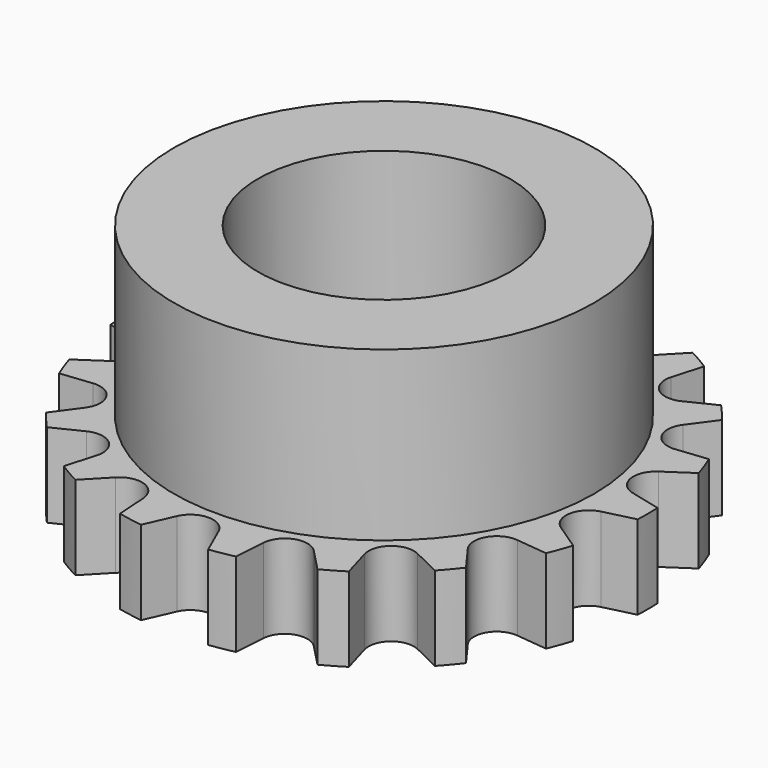
from build123d import *

# Parameters (mm, degrees)
F0_R     = 19.939
F1_DEPTH = 6.35
F2_R     = 15.875
F3_DEPTH = 12.7
F4_R     = 9.525
F5_DEPTH = 25.4
F7_DEPTH = 25.4


with BuildPart() as f1:
    # F0 (on Top) → F1 (new body)
    with BuildSketch(Plane.XY):
        Circle(F0_R)
    extrude(amount=F1_DEPTH)

    # F2 (on face) → F3 (join)
    with BuildSketch(Plane.XY.offset(6.35)):
        Circle(F2_R)
    extrude(amount=F3_DEPTH)

    # F4 (on face) → F5 (cut)
    with BuildSketch(Plane.XY.offset(19.05)):
        Circle(F4_R)
    extrude(amount=-F5_DEPTH, mode=Mode.SUBTRACT)

    # F6 (on face) → F7 (cut)
    with BuildSketch(Plane.XY.offset(6.35)):
        with BuildLine():
            Line((-2.5334230713, 19.777398427), (-1.5679899251, 17.5945175959))
            ThreePointArc((-1.5679899251, 17.5945175959), (0, 16.5735), (1.5679899251, 17.5945175959))
            Line((1.5679899251, 17.5945175959), (2.5334230713, 19.777398427))
            ThreePointArc((2.5334230713, 19.777398427), (0, 19.939), (-2.5334230713, 19.777398427))
        make_face()
        with BuildLine():
            ThreePointArc((9.1449076101, 17.7181936383), (6.8195396378, 18.7365311659), (4.3836296792, 19.4511570822))
            Line((4.3836296792, 19.4511570822), (4.5442508678, 17.0697224901))
            ThreePointArc((4.5442508678, 17.0697224901), (5.6684708454, 15.5739956506), (7.491107992, 15.9971542122))
            Line((7.491107992, 15.9971542122), (9.1449076101, 17.7181936383))
        make_face()
        with BuildLine():
            ThreePointArc((14.6533813266, 13.521913204), (12.8165421495, 15.2741601513), (10.7719519949, 16.7788191247))
            Line((10.7719519949, 16.7788191247), (10.1083879401, 14.4860669297))
            ThreePointArc((10.1083879401, 14.4860669297), (10.6532404491, 12.696037578), (12.5106878781, 12.4702979377))
            Line((12.5106878781, 12.4702979377), (14.6533813266, 13.521913204))
        make_face()
        with BuildLine():
            ThreePointArc((18.3944409942, 7.6946904752), (17.2676805261, 9.9695), (15.8610179229, 12.0827079518))
            Line((15.8610179229, 12.0827079518), (14.4533042428, 10.155177906))
            ThreePointArc((14.4533042428, 10.155177906), (14.3530720296, 8.28675), (16.0212941679, 7.4393396899))
            Line((16.0212941679, 7.4393396899), (18.3944409942, 7.6946904752))
        make_face()
        with BuildLine():
            ThreePointArc((19.9168596049, 0.9393745136), (19.6360817873, 3.4623710145), (19.0370110058, 5.9292438781))
            Line((19.0370110058, 5.9292438781), (17.0549387459, 4.5994245523))
            ThreePointArc((17.0549387459, 4.5994245523), (16.3217112945, 2.8779580726), (17.5994959321, 1.5110872826))
            Line((17.5994959321, 1.5110872826), (19.9168596049, 0.9393745136))
        make_face()
        with BuildLine():
            ThreePointArc((19.0370110058, -5.9292438781), (19.6360817873, -3.4623710145), (19.9168596049, -0.9393745136))
            Line((19.9168596049, -0.9393745136), (17.5994959321, -1.5110872826))
            ThreePointArc((17.5994959321, -1.5110872826), (16.3217112945, -2.8779580726), (17.0549387459, -4.5994245523))
            Line((17.0549387459, -4.5994245523), (19.0370110058, -5.9292438781))
        make_face()
        with BuildLine():
            ThreePointArc((15.8610179229, -12.0827079518), (17.2676805261, -9.9695), (18.3944409942, -7.6946904752))
            Line((18.3944409942, -7.6946904752), (16.0212941679, -7.4393396899))
            ThreePointArc((16.0212941679, -7.4393396899), (14.3530720296, -8.28675), (14.4533042428, -10.155177906))
            Line((14.4533042428, -10.155177906), (15.8610179229, -12.0827079518))
        make_face()
        with BuildLine():
            ThreePointArc((10.7719519949, -16.7788191247), (12.8165421495, -15.2741601513), (14.6533813266, -13.521913204))
            Line((14.6533813266, -13.521913204), (12.5106878781, -12.4702979377))
            ThreePointArc((12.5106878781, -12.4702979377), (10.6532404491, -12.696037578), (10.1083879401, -14.4860669297))
            Line((10.1083879401, -14.4860669297), (10.7719519949, -16.7788191247))
        make_face()
        with BuildLine():
            ThreePointArc((4.3836296792, -19.4511570822), (6.8195396378, -18.7365311659), (9.1449076101, -17.7181936383))
            Line((9.1449076101, -17.7181936383), (7.491107992, -15.9971542122))
            ThreePointArc((7.491107992, -15.9971542122), (5.6684708454, -15.5739956506), (4.5442508678, -17.0697224901))
            Line((4.5442508678, -17.0697224901), (4.3836296792, -19.4511570822))
        make_face()
        with BuildLine():
            Line((-1.5679899251, -17.5945175959), (-2.5334230713, -19.777398427))
            ThreePointArc((-2.5334230713, -19.777398427), (0, -19.939), (2.5334230713, -19.777398427))
            Line((2.5334230713, -19.777398427), (1.5679899251, -17.5945175959))
            ThreePointArc((1.5679899251, -17.5945175959), (0, -16.5735), (-1.5679899251, -17.5945175959))
        make_face()
        with BuildLine():
            Line((-7.491107992, -15.9971542122), (-9.1449076101, -17.7181936383))
            ThreePointArc((-9.1449076101, -17.7181936383), (-6.8195396378, -18.7365311659), (-4.3836296792, -19.4511570822))
            Line((-4.3836296792, -19.4511570822), (-4.5442508678, -17.0697224901))
            ThreePointArc((-4.5442508678, -17.0697224901), (-5.6684708454, -15.5739956506), (-7.491107992, -15.9971542122))
        make_face()
        with BuildLine():
            Line((-12.5106878781, -12.4702979377), (-14.6533813266, -13.521913204))
            ThreePointArc((-14.6533813266, -13.521913204), (-12.8165421495, -15.2741601513), (-10.7719519949, -16.7788191247))
            Line((-10.7719519949, -16.7788191247), (-10.1083879401, -14.4860669297))
            ThreePointArc((-10.1083879401, -14.4860669297), (-10.6532404491, -12.696037578), (-12.5106878781, -12.4702979377))
        make_face()
        with BuildLine():
            Line((-16.0212941679, -7.4393396899), (-18.3944409942, -7.6946904752))
            ThreePointArc((-18.3944409942, -7.6946904752), (-17.2676805261, -9.9695), (-15.8610179229, -12.0827079518))
            Line((-15.8610179229, -12.0827079518), (-14.4533042428, -10.155177906))
            ThreePointArc((-14.4533042428, -10.155177906), (-14.3530720296, -8.28675), (-16.0212941679, -7.4393396899))
        make_face()
        with BuildLine():
            Line((-17.5994959321, -1.5110872826), (-19.9168596049, -0.9393745136))
            ThreePointArc((-19.9168596049, -0.9393745136), (-19.6360817873, -3.4623710145), (-19.0370110058, -5.9292438781))
            Line((-19.0370110058, -5.9292438781), (-17.0549387459, -4.5994245523))
            ThreePointArc((-17.0549387459, -4.5994245523), (-16.3217112945, -2.8779580726), (-17.5994959321, -1.5110872826))
        make_face()
        with BuildLine():
            Line((-17.0549387459, 4.5994245523), (-19.0370110058, 5.9292438781))
            ThreePointArc((-19.0370110058, 5.9292438781), (-19.6360817873, 3.4623710145), (-19.9168596049, 0.9393745136))
            Line((-19.9168596049, 0.9393745136), (-17.5994959321, 1.5110872826))
            ThreePointArc((-17.5994959321, 1.5110872826), (-16.3217112945, 2.8779580726), (-17.0549387459, 4.5994245523))
        make_face()
        with BuildLine():
            Line((-14.4533042428, 10.155177906), (-15.8610179229, 12.0827079518))
            ThreePointArc((-15.8610179229, 12.0827079518), (-17.2676805261, 9.9695), (-18.3944409942, 7.6946904752))
            Line((-18.3944409942, 7.6946904752), (-16.0212941679, 7.4393396899))
            ThreePointArc((-16.0212941679, 7.4393396899), (-14.3530720296, 8.28675), (-14.4533042428, 10.155177906))
        make_face()
        with BuildLine():
            Line((-10.1083879401, 14.4860669297), (-10.7719519949, 16.7788191247))
            ThreePointArc((-10.7719519949, 16.7788191247), (-12.8165421495, 15.2741601513), (-14.6533813266, 13.521913204))
            Line((-14.6533813266, 13.521913204), (-12.5106878781, 12.4702979377))
            ThreePointArc((-12.5106878781, 12.4702979377), (-10.6532404491, 12.696037578), (-10.1083879401, 14.4860669297))
        make_face()
        with BuildLine():
            Line((-4.5442508678, 17.0697224901), (-4.3836296792, 19.4511570822))
            ThreePointArc((-4.3836296792, 19.4511570822), (-6.8195396378, 18.7365311659), (-9.1449076101, 17.7181936383))
            Line((-9.1449076101, 17.7181936383), (-7.491107992, 15.9971542122))
            ThreePointArc((-7.491107992, 15.9971542122), (-5.6684708454, 15.5739956506), (-4.5442508678, 17.0697224901))
        make_face()
    extrude(amount=-F7_DEPTH, mode=Mode.SUBTRACT)


solid = f1.part
